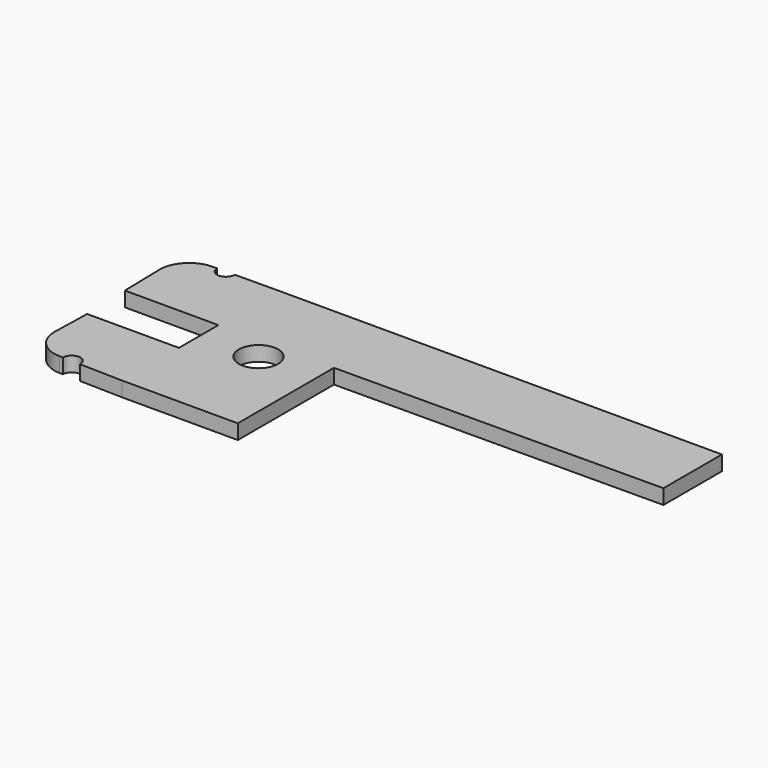
from build123d import *

# Parameters (mm, degrees)
F1_DEPTH = 2.54
F3_D     = 6.7564
F4_R     = 5.08
F5_R     = 5.08
F7_D     = 3
F9_D     = 3


with BuildPart() as f1:
    # F0 (on Top) → F1 (new body)
    with BuildSketch(Plane.XY):
        Polygon((-46.2908484042, 37.6848205924), (-45.9911487997, 24.9666236341), (-29.9353669436, 24.9666236341), (-29.9353669436, 16.4984129369), (-45.6991419196, 16.4984129369), (-45.9911487997, 4.7181551345), (-29.9353669436, 4.3201673446), (-10.0788730235, 4.3201673446), (-10.0788730235, 24.9666236341), (46.2785349189, 25.2586323768), (46.2785349189, 37.8149449825), (-30.5147636682, 37.8149449825), align=None)
    extrude(amount=F1_DEPTH)

    # F3 (through all)
    with Locations(Plane.XY.offset(2.54)):
        with Locations((-20.0071199835, 21.1749691516)):
            Hole(F3_D / 2)

    # F4
    f4_edges = [f1.edges().sort_by_distance(p)[0] for p in [
        (-45.991149, 4.718155, 1.27),
    ]]
    fillet(f4_edges, radius=F4_R)

    # F5
    f5_edges = [f1.edges().sort_by_distance(p)[0] for p in [
        (-46.290848, 37.684821, 1.27),
    ]]
    fillet(f5_edges, radius=F5_R)

    # F7 (through all)
    with Locations(Plane.XY.offset(2.54)):
        with Locations((-38.8525593063, 37.7273665891)):
            Hole(F7_D / 2)

    # F9 (through all)
    with Locations(Plane.XY.offset(2.54)):
        with Locations((-38.8401874188, 4.5922716895)):
            Hole(F9_D / 2)


solid = f1.part
